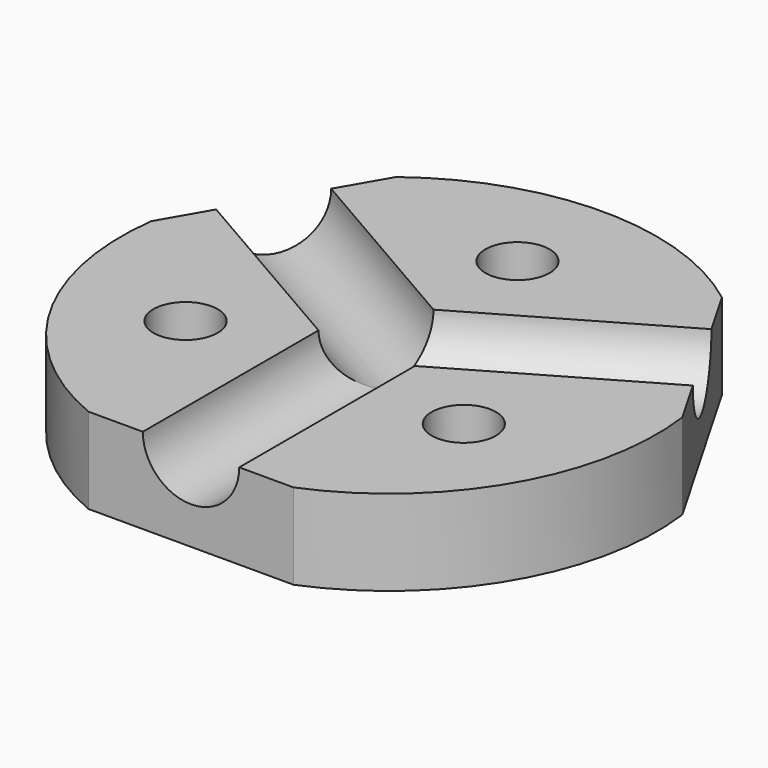
from build123d import *

# Parameters (mm, degrees)
F0_R     = 3
F1_DEPTH = 8
F2_R     = 4.5
F3_DEPTH = 23.2
F4_R     = 4.5
F5_DEPTH = 23.2
F6_R     = 4.5
F7_DEPTH = 23.2


with BuildPart() as f1:
    # F0 (on Top) → F1 (new body)
    with BuildSketch(Plane.XY):
        with BuildLine():
            Line((24.7871355388, 42.9325781273), (15.2128644612, 26.3494541755))
            ThreePointArc((15.2128644612, 26.3494541755), (18.3493649054, 10.5940107676), (30.4257289224, 0))
            Line((30.4257289224, 0), (49.5742710776, 0))
            ThreePointArc((49.5742710776, 0), (61.6506350946, 10.5940107676), (64.7871355388, 26.3494541755))
            Line((64.7871355388, 26.3494541755), (55.2128644612, 42.9325781273))
            ThreePointArc((55.2128644612, 42.9325781273), (40, 48.0940107676), (24.7871355388, 42.9325781273))
        make_face()
        with Locations((27.0096189432, 15.5940107676)):
            Circle(F0_R, mode=Mode.SUBTRACT)
        with Locations((52.9903810568, 15.5940107676)):
            Circle(F0_R, mode=Mode.SUBTRACT)
        with Locations((40, 38.0940107676)):
            Circle(F0_R, mode=Mode.SUBTRACT)
    extrude(amount=F1_DEPTH)

    # F2 (on face) → F3 (cut)
    with BuildSketch(Plane.XZ):
        with Locations((40, 8)):
            Circle(F2_R)
    extrude(amount=-F3_DEPTH, mode=Mode.SUBTRACT)

    # F4 (on face) → F5 (cut)
    with BuildSketch(Plane(origin=(60, 34.6410161514, 0), x_dir=(-0.5, 0.8660254038, 0), z_dir=(0.8660254038, 0.5, 0))):
        with Locations((0, 8)):
            Circle(F4_R)
    extrude(amount=-F5_DEPTH, mode=Mode.SUBTRACT)

    # F6 (on face) → F7 (cut)
    with BuildSketch(Plane(origin=(0, 0, 0), x_dir=(-0.5, -0.8660254038, 0), z_dir=(-0.8660254038, 0.5, 0))):
        with Locations((-40, 8)):
            Circle(F6_R)
    extrude(amount=-F7_DEPTH, mode=Mode.SUBTRACT)


solid = f1.part
